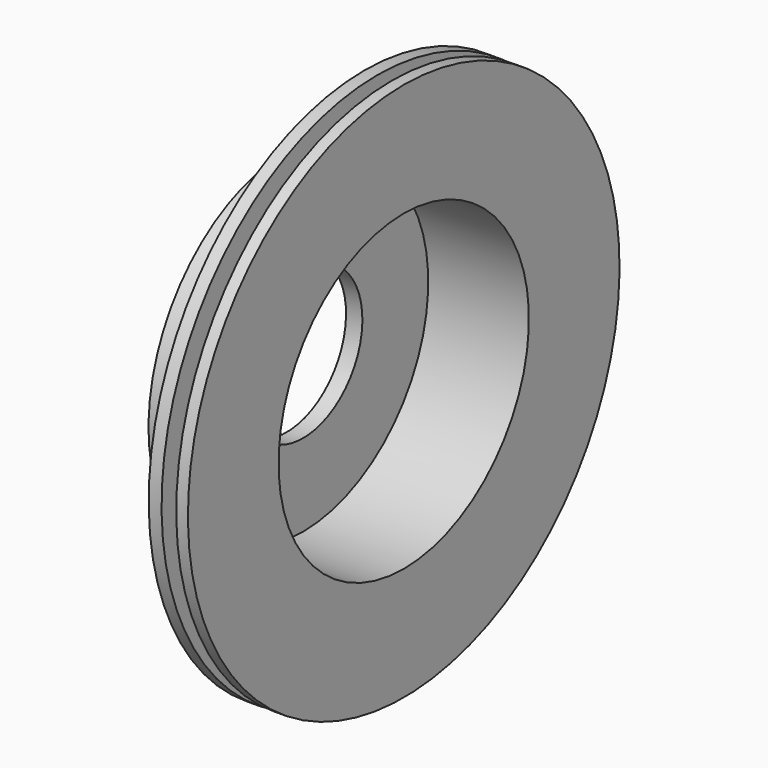
from build123d import *

# Parameters (mm, degrees)
F0_W = 6.3
F0_H = 10


with BuildPart() as f1:
    # F0 (on Front) → F1 (revolve)
    with BuildSketch(Plane.XZ):
        Polygon((0, 74), (0, 31.75), (7, 31.75), (7, 67), (33.3, 67), (33.3, 74), align=None)
        Polygon((33.3, 115.5), (33.3, 74), (33.3, 67), (38.8, 67), (38.8, 77), (38.8, 115.5), align=None)
        with Locations((41.95, 72)):
            Rectangle(F0_W, F0_H)
        Polygon((45.1, 77), (45.1, 67), (50.1, 67), (50.1, 115.5), (45.1, 115.5), align=None)
    revolve(axis=Axis((16.65, 0, 0), (1, 0, 0)))


solid = f1.part
